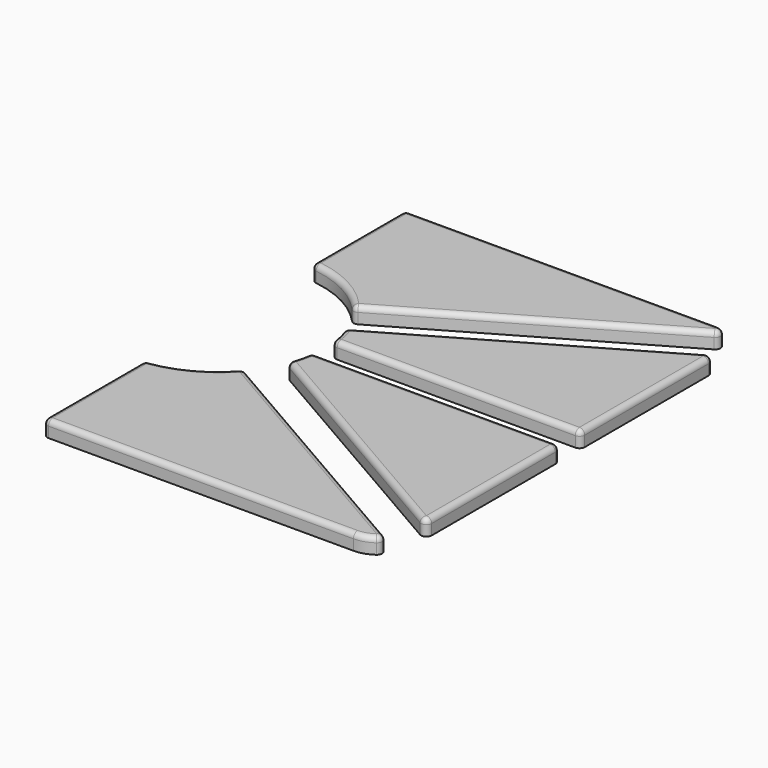
from build123d import *

# Parameters (mm, degrees)
SKETCH007_W   = 2
SKETCH007_H   = 82
SKETCH007_W_2 = 81.968745
SKETCH007_H_2 = 5
PAD008_DEPTH  = 10
SKETCH009_R   = 20
PAD007_DEPTH  = 10
PAD006_DEPTH  = 3
FILLET002_R   = 1


with BuildPart() as obj1:
    # Sketch007 → Pad008 (new body)
    with BuildSketch(Plane.XY):
        with Locations((1, 59)):
            Rectangle(SKETCH007_W, SKETCH007_H)
        Polygon((13.540929, 11.859311), (84.79948, 53.000455), (88.29948, 46.938277), (17.040929, 5.797133), align=None)
        with Locations((58.984372, 0)):
            Rectangle(SKETCH007_W_2, SKETCH007_H_2)
        Polygon((17.040929, -5.797133), (88.29948, -46.938277), (84.79948, -53.000455), (13.540929, -11.859311), align=None)
        with Locations((1, -59)):
            Rectangle(SKETCH007_W, SKETCH007_H)
    extrude(amount=PAD008_DEPTH)


with BuildPart() as obj2:
    # Sketch009 → Pad007 (new body)
    with BuildSketch(Plane.XY):
        Circle(SKETCH009_R)
    extrude(amount=PAD007_DEPTH)


with BuildPart() as obj3:
    # Sketch008 → Pad006 (new body)
    with BuildSketch(Plane.XY):
        with BuildLine():
            Line((0, 42), (61, 42))
            ThreePointArc((67, 36), (65.242641, 40.242641), (61, 42))
            Line((67, 36), (67, -38))
            ThreePointArc((61, -44), (65.242641, -42.242641), (67, -38))
            Line((61, -44), (0, -44))
            Line((0, -44), (0, 42))
        make_face()
    extrude(amount=PAD006_DEPTH)

    # Cut001: cut obj2
    add(obj2.part, mode=Mode.SUBTRACT)

    # Cut002: cut obj1
    add(obj1.part, mode=Mode.SUBTRACT)

    # Fillet002
    fillet002_edges = [obj3.edges().sort_by_distance(p)[0] for p in [
        (2, -44, 1.5),
        (31.5, -44, 3),
        (2, -31.949874, 3),
        (2, -19.899749, 1.5),
        (63.513057, -43.448353, 3),
        (40.433616, -27.385811, 3),
        (9.337074, -17.686691, 3),
        (65.564006, -41.894849, 1.5),
        (15.303226, -12.876773, 1.5),
        (67, -34.641016, 1.5),
        (67, -18.570508, 3),
        (67, -2.5, 1.5),
        (43.421567, -2.5, 3),
        (19.843135, -2.5, 1.5),
        (19.443231, -4.686232, 3),
        (18.803226, -6.814595, 1.5),
        (42.901613, -20.727806, 3),
        (67, 2.5, 1.5),
        (67, 18.570508, 3),
        (67, 34.641016, 1.5),
        (18.803226, 6.814595, 1.5),
        (42.901613, 20.727806, 3),
        (19.443231, 4.686232, 3),
        (19.843135, 2.5, 1.5),
        (43.421567, 2.5, 3),
        (62.650417, 41.768546, 3),
        (64.173503, 41.092041, 1.5),
        (31.5, 42, 3),
        (2, 42, 1.5),
        (2, 30.949874, 3),
        (2, 19.899749, 1.5),
        (9.337074, 17.686691, 3),
        (15.303226, 12.876773, 1.5),
        (39.738364, 26.984407, 3),
    ]]
    fillet(fillet002_edges, radius=FILLET002_R)


solid = obj3.part
